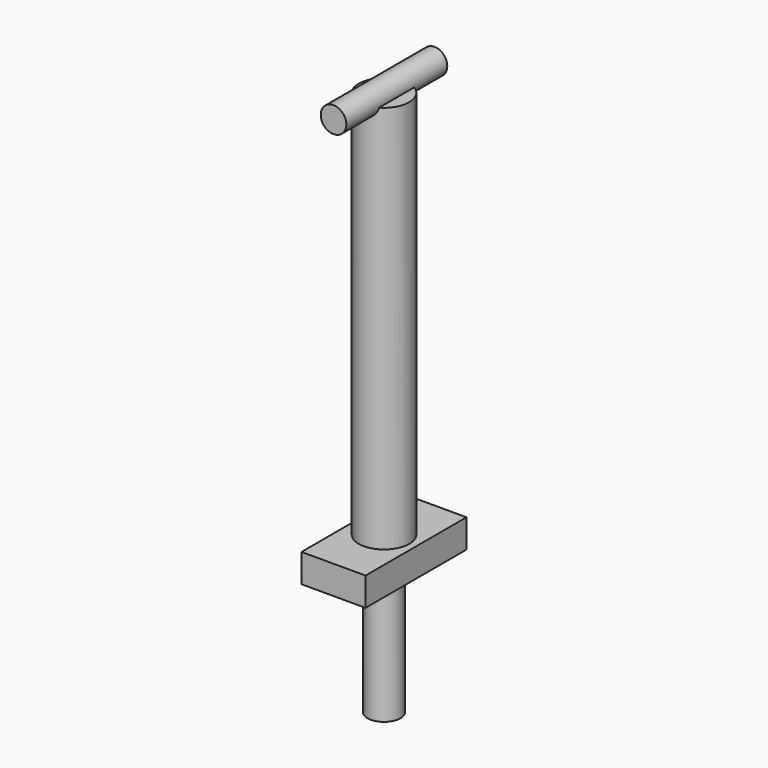
from build123d import *

# Parameters (mm, degrees)
F0_R     = 2
F1_DEPTH = 33.5
F2_R     = 1.308444
F3_DEPTH = 9.7
F4_W     = 5.071078
F4_H     = 2.256125
F4_R     = 1.013816
F5_DEPTH = 5


with BuildPart() as f1:
    # F0 (on Top) → F1 (new body)
    with BuildSketch(Plane.XY):
        Circle(F0_R)
    extrude(amount=F1_DEPTH)

    # F2 (on face) → F3 (join)
    with BuildSketch(Plane(origin=(0, 0, 0), x_dir=(1, 0, 0), z_dir=(0, 0, -1))):
        Circle(F2_R)
    extrude(amount=F3_DEPTH)

    # F4 (on Front) → F5 (join, symmetric)
    with BuildSketch(Plane.XZ):
        with Locations((0, 1.55916)):
            Rectangle(F4_W, F4_H)
        with Locations((0, 33.668082)):
            Circle(F4_R)
    extrude(amount=F5_DEPTH, both=True)


solid = f1.part
